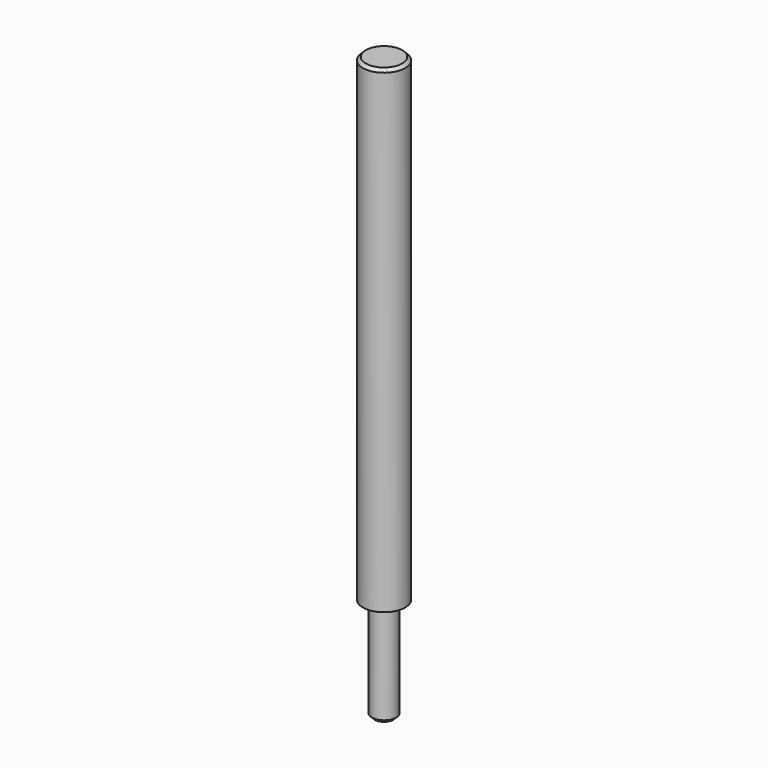
from build123d import *

# Parameters (mm, degrees)
F0_R     = 11.1125
F0_R_2   = 6.35
F1_DEPTH = 250.825
F2_DEPTH = 53.975
F3_SIZE2 = 1.5875
F3_SIZE  = 1.5875


with BuildPart() as f1:
    # F0 (on Top) → F1 (new body)
    with BuildSketch(Plane.XY):
        Circle(F0_R)
        Circle(F0_R_2, mode=Mode.SUBTRACT)
        Circle(F0_R_2)
    extrude(amount=F1_DEPTH)

    # F0 (on Top) → F2 (join)
    with BuildSketch(Plane.XY):
        Circle(F0_R_2)
    extrude(amount=-F2_DEPTH)

    # F3
    f3_edges = [f1.edges().sort_by_distance(p)[0] for p in [
        (-11.1125, 0, 250.825),
        (-6.35, 0, -53.975),
    ]]
    chamfer(f3_edges, length=F3_SIZE, length2=F3_SIZE2)


solid = f1.part
